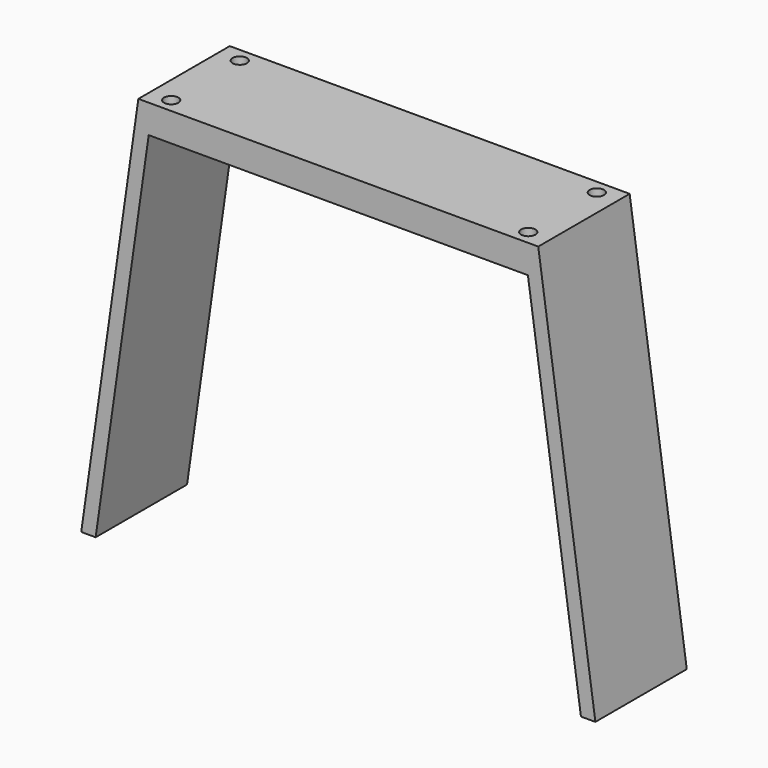
from build123d import *

# Parameters (mm, degrees)
F1_DEPTH = 50.8
F3_R     = 3.175
F4_DEPTH = 177.801


with BuildPart() as f1:
    # F0 (on Front) → F1 (new body)
    with BuildSketch(Plane.XZ):
        Polygon((25.4, 177.8), (0, 0), (6.414469, 0), (30.000183, 165.1), (198.599817, 165.1), (222.185531, 0), (228.6, 0), (203.2, 177.8), align=None)
    extrude(amount=F1_DEPTH)


with BuildPart() as f1_1:
    # F2: moved
    add(f1.part.moved(Location((-114.3, 0, 0))))

    # F3 (on face) → F4 (cut, through all)
    with BuildSketch(Plane.XY.offset(177.8)):
        with Locations((-79.375, -6.35)):
            Circle(F3_R)
        with Locations((-79.375, -44.45)):
            Circle(F3_R)
        with Locations((79.375, -6.35)):
            Circle(F3_R)
        with Locations((79.375, -44.45)):
            Circle(F3_R)
    extrude(amount=-F4_DEPTH, mode=Mode.SUBTRACT)


solid = f1_1.part
